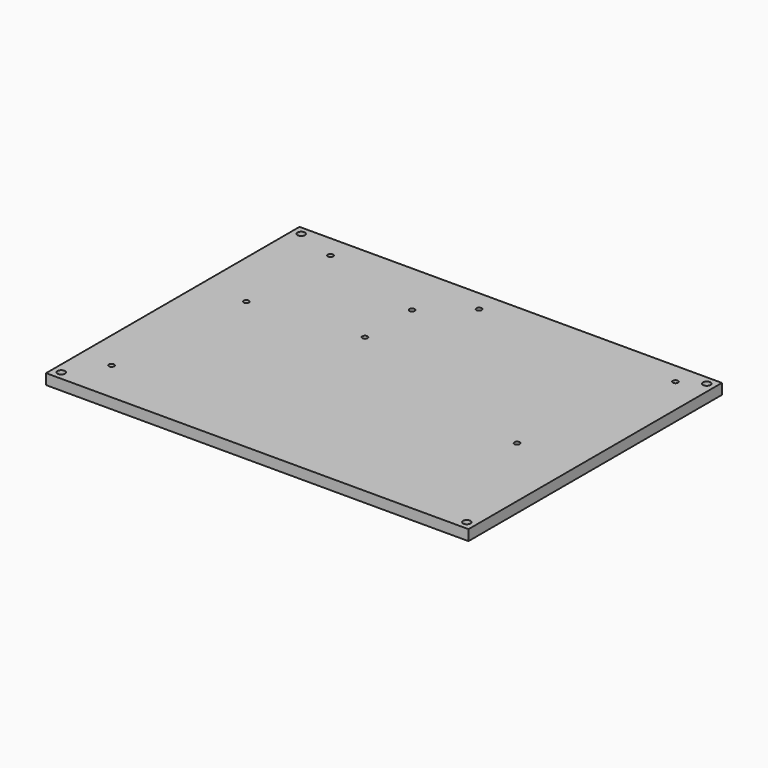
from build123d import *

# Parameters (mm, degrees)
F0_W     = 200
F0_H     = 150
F0_R     = 1.6
F1_DEPTH = 5
F3_D     = 2.5
F5_D     = 3.5


with BuildPart() as f1:
    # F0 (on Top) → F1 (new body)
    with BuildSketch(Plane.XY):
        Rectangle(F0_W, F0_H)
        with Locations((-96, -71)):
            Circle(F0_R, mode=Mode.SUBTRACT)
        with Locations((96, -71)):
            Circle(F0_R, mode=Mode.SUBTRACT)
        with Locations((-96, 71)):
            Circle(F0_R, mode=Mode.SUBTRACT)
        with Locations((96, 71)):
            Circle(F0_R, mode=Mode.SUBTRACT)
    extrude(amount=F1_DEPTH)

    # F3 (through all)
    with Locations(Plane.XY.offset(5)):
        with Locations((-76.7, 64.2), (-25.9, 49), (-25.9, 21.1), (-78, 16), (-85, -55), (71, -10), (-7, 65), (86, 65)):
            Hole(F3_D / 2)

    # F5 (through all)
    with Locations(Plane.XY.offset(5)):
        with Locations((-96, -71), (-96, 71), (96, 71), (96, -71)):
            Hole(F5_D / 2)


solid = f1.part
